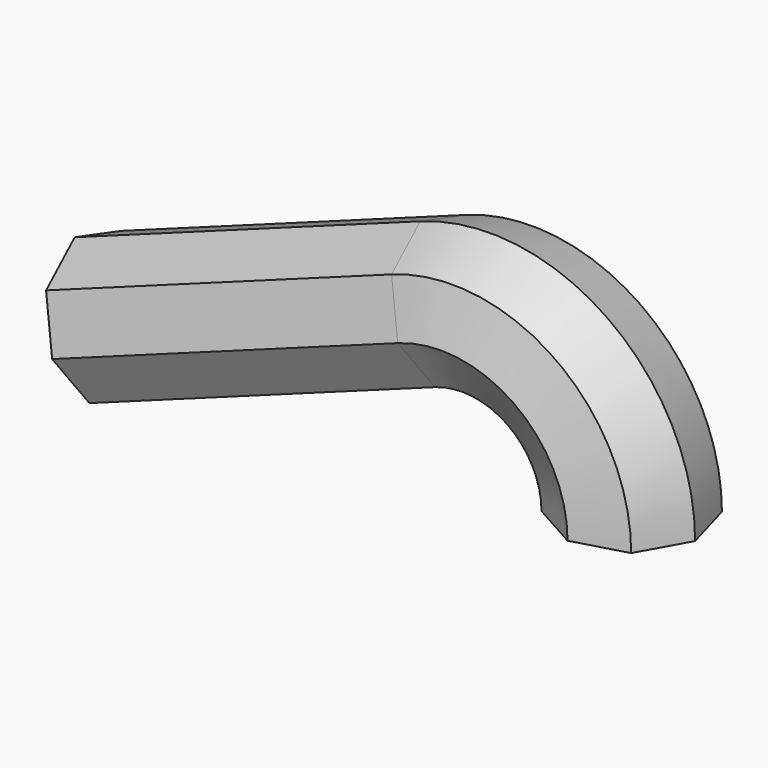
from build123d import *


with BuildPart() as f2:
    # F2: sweep along a path in F1
    with BuildLine(Plane.XZ) as f2_path:
        ThreePointArc((0, 0), (-17.046052, 32.711514), (-53.622998, 37.479948))
        Line((-53.622998, 37.479948), (-156.060986, 0))
    # F0 (on Top) → F2 (sweep)
    with BuildSketch(Plane.XY):
        Polygon((-12.949203, 16.38248), (-20.740632, 2.427694), (-16.38248, -12.949203), (-2.427694, -20.740632), (12.949203, -16.38248), (20.740632, -2.427694), (16.38248, 12.949203), (2.427694, 20.740632), align=None)
    sweep(path=f2_path.line)


solid = f2.part
